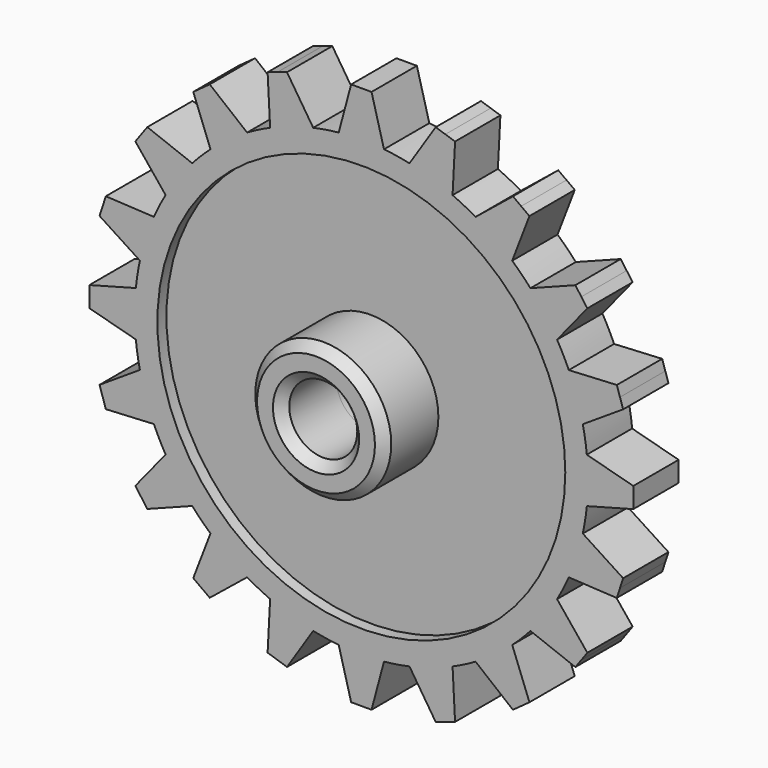
from build123d import *

# Parameters (mm, degrees)
F1_DEPTH  = 25
F2_R      = 90
F3_DEPTH  = 5
F4_R      = 30
F4_R_2    = 15
F5_DEPTH  = 30
F5_FACE_R = 15
F6_DEPTH  = 100
F7_SIZE   = 4


with BuildPart() as f1:
    # F0 (on Front) → F1 (new body)
    with BuildSketch(Plane.XZ):
        with BuildLine():
            ThreePointArc((99.499436, -9.99311), (99.874781, -5.002819), (100, 0))
            ThreePointArc((100, 0), (99.874781, 5.002819), (99.499436, 9.99311))
            ThreePointArc((99.499436, 9.99311), (98.768834, 15.643447), (97.717628, 21.243005))
            ThreePointArc((97.717628, 21.243005), (95.105652, 30.901699), (91.541546, 40.251029))
            ThreePointArc((91.541546, 40.251029), (89.100652, 45.39905), (86.370537, 50.399706))
            ThreePointArc((86.370537, 50.399706), (80.901699, 58.778525), (74.622932, 66.568897))
            ThreePointArc((74.622932, 66.568897), (70.710678, 70.710678), (66.568897, 74.622932))
            ThreePointArc((66.568897, 74.622932), (58.778525, 80.901699), (50.399706, 86.370537))
            ThreePointArc((50.399706, 86.370537), (45.39905, 89.100652), (40.251029, 91.541546))
            ThreePointArc((40.251029, 91.541546), (30.901699, 95.105652), (21.243005, 97.717628))
            ThreePointArc((21.243005, 97.717628), (15.643447, 98.768834), (9.99311, 99.499436))
            ThreePointArc((9.99311, 99.499436), (0, 100), (-9.99311, 99.499436))
            ThreePointArc((-9.99311, 99.499436), (-15.643447, 98.768834), (-21.243005, 97.717628))
            ThreePointArc((-21.243005, 97.717628), (-30.901699, 95.105652), (-40.251029, 91.541546))
            ThreePointArc((-40.251029, 91.541546), (-45.39905, 89.100652), (-50.399706, 86.370537))
            ThreePointArc((-50.399706, 86.370537), (-58.778525, 80.901699), (-66.568897, 74.622932))
            ThreePointArc((-66.568897, 74.622932), (-70.710678, 70.710678), (-74.622932, 66.568897))
            ThreePointArc((-74.622932, 66.568897), (-80.901699, 58.778525), (-86.370537, 50.399706))
            ThreePointArc((-86.370537, 50.399706), (-89.100652, 45.39905), (-91.541546, 40.251029))
            ThreePointArc((-91.541546, 40.251029), (-95.105652, 30.901699), (-97.717628, 21.243005))
            ThreePointArc((-97.717628, 21.243005), (-98.768834, 15.643447), (-99.499436, 9.99311))
            ThreePointArc((-99.499436, 9.99311), (-100, 0), (-99.499436, -9.99311))
            ThreePointArc((-99.499436, -9.99311), (-98.768834, -15.643447), (-97.717628, -21.243005))
            ThreePointArc((-97.717628, -21.243005), (-95.105652, -30.901699), (-91.541546, -40.251029))
            ThreePointArc((-91.541546, -40.251029), (-89.100652, -45.39905), (-86.370537, -50.399706))
            ThreePointArc((-86.370537, -50.399706), (-80.901699, -58.778525), (-74.622932, -66.568897))
            ThreePointArc((-74.622932, -66.568897), (-70.710678, -70.710678), (-66.568897, -74.622932))
            ThreePointArc((-66.568897, -74.622932), (-58.778525, -80.901699), (-50.399706, -86.370537))
            ThreePointArc((-50.399706, -86.370537), (-45.39905, -89.100652), (-40.251029, -91.541546))
            ThreePointArc((-40.251029, -91.541546), (-30.901699, -95.105652), (-21.243005, -97.717628))
            ThreePointArc((-21.243005, -97.717628), (-15.643447, -98.768834), (-9.99311, -99.499436))
            ThreePointArc((-9.99311, -99.499436), (0, -100), (9.99311, -99.499436))
            ThreePointArc((9.99311, -99.499436), (15.643447, -98.768834), (21.243005, -97.717628))
            ThreePointArc((21.243005, -97.717628), (30.901699, -95.105652), (40.251029, -91.541546))
            ThreePointArc((40.251029, -91.541546), (45.39905, -89.100652), (50.399706, -86.370537))
            ThreePointArc((50.399706, -86.370537), (58.778525, -80.901699), (66.568897, -74.622932))
            ThreePointArc((66.568897, -74.622932), (70.710678, -70.710678), (74.622932, -66.568897))
            ThreePointArc((74.622932, -66.568897), (80.901699, -58.778525), (86.370537, -50.399706))
            ThreePointArc((86.370537, -50.399706), (89.100652, -45.39905), (91.541546, -40.251029))
            ThreePointArc((91.541546, -40.251029), (95.105652, -30.901699), (97.717628, -21.243005))
            ThreePointArc((97.717628, -21.243005), (98.768834, -15.643447), (99.499436, -9.99311))
        make_face()
        with BuildLine():
            ThreePointArc((-99.499436, -9.99311), (-100, 0), (-99.499436, 9.99311))
            Line((-99.499436, 9.99311), (-120, 4.5))
            Line((-120, 4.5), (-120, 0))
            Line((-120, 0), (-120, -4.5))
            Line((-120, -4.5), (-99.499436, -9.99311))
        make_face()
        with BuildLine():
            ThreePointArc((-97.717628, 21.243005), (-95.105652, 30.901699), (-91.541546, 40.251029))
            Line((-91.541546, 40.251029), (-112.736205, 41.361794))
            Line((-112.736205, 41.361794), (-114.126782, 37.082039))
            Line((-114.126782, 37.082039), (-115.517358, 32.802285))
            Line((-115.517358, 32.802285), (-97.717628, 21.243005))
        make_face()
        with BuildLine():
            ThreePointArc((-86.370537, 50.399706), (-80.901699, 58.778525), (-74.622932, 66.568897))
            Line((-74.622932, 66.568897), (-94.437006, 74.174807))
            Line((-94.437006, 74.174807), (-97.082039, 70.53423))
            Line((-97.082039, 70.53423), (-99.727073, 66.893654))
            Line((-99.727073, 66.893654), (-86.370537, 50.399706))
        make_face()
        with BuildLine():
            ThreePointArc((-66.568897, 74.622932), (-58.778525, 80.901699), (-50.399706, 86.370537))
            Line((-50.399706, 86.370537), (-66.893654, 99.727073))
            Line((-66.893654, 99.727073), (-70.53423, 97.082039))
            Line((-70.53423, 97.082039), (-74.174807, 94.437006))
            Line((-74.174807, 94.437006), (-66.568897, 74.622932))
        make_face()
        with BuildLine():
            ThreePointArc((-40.251029, 91.541546), (-30.901699, 95.105652), (-21.243005, 97.717628))
            Line((-21.243005, 97.717628), (-32.802285, 115.517358))
            Line((-32.802285, 115.517358), (-37.082039, 114.126782))
            Line((-37.082039, 114.126782), (-41.361794, 112.736205))
            Line((-41.361794, 112.736205), (-40.251029, 91.541546))
        make_face()
        with BuildLine():
            ThreePointArc((-9.99311, 99.499436), (0, 100), (9.99311, 99.499436))
            Line((9.99311, 99.499436), (4.5, 120))
            Line((4.5, 120), (0, 120))
            Line((0, 120), (-4.5, 120))
            Line((-4.5, 120), (-9.99311, 99.499436))
        make_face()
        with BuildLine():
            ThreePointArc((21.243005, 97.717628), (30.901699, 95.105652), (40.251029, 91.541546))
            Line((40.251029, 91.541546), (41.361794, 112.736205))
            Line((41.361794, 112.736205), (37.082039, 114.126782))
            Line((37.082039, 114.126782), (32.802285, 115.517358))
            Line((32.802285, 115.517358), (21.243005, 97.717628))
        make_face()
        with BuildLine():
            ThreePointArc((50.399706, 86.370537), (58.778525, 80.901699), (66.568897, 74.622932))
            Line((66.568897, 74.622932), (74.174807, 94.437006))
            Line((74.174807, 94.437006), (70.53423, 97.082039))
            Line((70.53423, 97.082039), (66.893654, 99.727073))
            Line((66.893654, 99.727073), (50.399706, 86.370537))
        make_face()
        with BuildLine():
            ThreePointArc((74.622932, 66.568897), (80.901699, 58.778525), (86.370537, 50.399706))
            Line((86.370537, 50.399706), (99.727073, 66.893654))
            Line((99.727073, 66.893654), (97.082039, 70.53423))
            Line((97.082039, 70.53423), (94.437006, 74.174807))
            Line((94.437006, 74.174807), (74.622932, 66.568897))
        make_face()
        with BuildLine():
            ThreePointArc((91.541546, 40.251029), (95.105652, 30.901699), (97.717628, 21.243005))
            Line((97.717628, 21.243005), (115.517358, 32.802285))
            Line((115.517358, 32.802285), (114.126782, 37.082039))
            Line((114.126782, 37.082039), (112.736205, 41.361794))
            Line((112.736205, 41.361794), (91.541546, 40.251029))
        make_face()
        with BuildLine():
            ThreePointArc((99.499436, 9.99311), (99.874781, 5.002819), (100, 0))
            ThreePointArc((100, 0), (99.874781, -5.002819), (99.499436, -9.99311))
            Line((99.499436, -9.99311), (120, -4.5))
            Line((120, -4.5), (120, 0))
            Line((120, 0), (120, 4.5))
            Line((120, 4.5), (99.499436, 9.99311))
        make_face()
        with BuildLine():
            Line((115.517358, -32.802285), (97.717628, -21.243005))
            ThreePointArc((97.717628, -21.243005), (95.105652, -30.901699), (91.541546, -40.251029))
            Line((91.541546, -40.251029), (112.736205, -41.361794))
            Line((112.736205, -41.361794), (114.126782, -37.082039))
            Line((114.126782, -37.082039), (115.517358, -32.802285))
        make_face()
        with BuildLine():
            Line((99.727073, -66.893654), (86.370537, -50.399706))
            ThreePointArc((86.370537, -50.399706), (80.901699, -58.778525), (74.622932, -66.568897))
            Line((74.622932, -66.568897), (94.437006, -74.174807))
            Line((94.437006, -74.174807), (97.082039, -70.53423))
            Line((97.082039, -70.53423), (99.727073, -66.893654))
        make_face()
        with BuildLine():
            Line((74.174807, -94.437006), (66.568897, -74.622932))
            ThreePointArc((66.568897, -74.622932), (58.778525, -80.901699), (50.399706, -86.370537))
            Line((50.399706, -86.370537), (66.893654, -99.727073))
            Line((66.893654, -99.727073), (70.53423, -97.082039))
            Line((70.53423, -97.082039), (74.174807, -94.437006))
        make_face()
        with BuildLine():
            Line((41.361794, -112.736205), (40.251029, -91.541546))
            ThreePointArc((40.251029, -91.541546), (30.901699, -95.105652), (21.243005, -97.717628))
            Line((21.243005, -97.717628), (32.802285, -115.517358))
            Line((32.802285, -115.517358), (37.082039, -114.126782))
            Line((37.082039, -114.126782), (41.361794, -112.736205))
        make_face()
        with BuildLine():
            Line((4.5, -120), (9.99311, -99.499436))
            ThreePointArc((9.99311, -99.499436), (0, -100), (-9.99311, -99.499436))
            Line((-9.99311, -99.499436), (-4.5, -120))
            Line((-4.5, -120), (0, -120))
            Line((0, -120), (4.5, -120))
        make_face()
        with BuildLine():
            Line((-32.802285, -115.517358), (-21.243005, -97.717628))
            ThreePointArc((-21.243005, -97.717628), (-30.901699, -95.105652), (-40.251029, -91.541546))
            Line((-40.251029, -91.541546), (-41.361794, -112.736205))
            Line((-41.361794, -112.736205), (-37.082039, -114.126782))
            Line((-37.082039, -114.126782), (-32.802285, -115.517358))
        make_face()
        with BuildLine():
            Line((-66.893654, -99.727073), (-50.399706, -86.370537))
            ThreePointArc((-50.399706, -86.370537), (-58.778525, -80.901699), (-66.568897, -74.622932))
            Line((-66.568897, -74.622932), (-74.174807, -94.437006))
            Line((-74.174807, -94.437006), (-70.53423, -97.082039))
            Line((-70.53423, -97.082039), (-66.893654, -99.727073))
        make_face()
        with BuildLine():
            Line((-94.437006, -74.174807), (-74.622932, -66.568897))
            ThreePointArc((-74.622932, -66.568897), (-80.901699, -58.778525), (-86.370537, -50.399706))
            Line((-86.370537, -50.399706), (-99.727073, -66.893654))
            Line((-99.727073, -66.893654), (-97.082039, -70.53423))
            Line((-97.082039, -70.53423), (-94.437006, -74.174807))
        make_face()
        with BuildLine():
            Line((-112.736205, -41.361794), (-91.541546, -40.251029))
            ThreePointArc((-91.541546, -40.251029), (-95.105652, -30.901699), (-97.717628, -21.243005))
            Line((-97.717628, -21.243005), (-115.517358, -32.802285))
            Line((-115.517358, -32.802285), (-114.126782, -37.082039))
            Line((-114.126782, -37.082039), (-112.736205, -41.361794))
        make_face()
    extrude(amount=F1_DEPTH)

    # F2 (on face) → F3 (cut)
    with BuildSketch(Plane.XZ.offset(25)):
        Circle(F2_R)
    extrude(amount=-F3_DEPTH, mode=Mode.SUBTRACT)

    # F4 (on face) → F5 (join)
    with BuildSketch(Plane.XZ.offset(20)):
        Circle(F4_R)
        Circle(F4_R_2, mode=Mode.SUBTRACT)
    extrude(amount=F5_DEPTH)

    # F5_face (on face) → F6 (cut)
    with BuildSketch(Plane.XZ.offset(20)):
        Circle(F5_FACE_R)
    extrude(amount=-F6_DEPTH, mode=Mode.SUBTRACT)

    # F7
    f7_edges = [f1.edges().sort_by_distance(p)[0] for p in [
        (-30, -50, 0),
        (-15, -50, 0),
    ]]
    chamfer(f7_edges, length=F7_SIZE)


solid = f1.part
